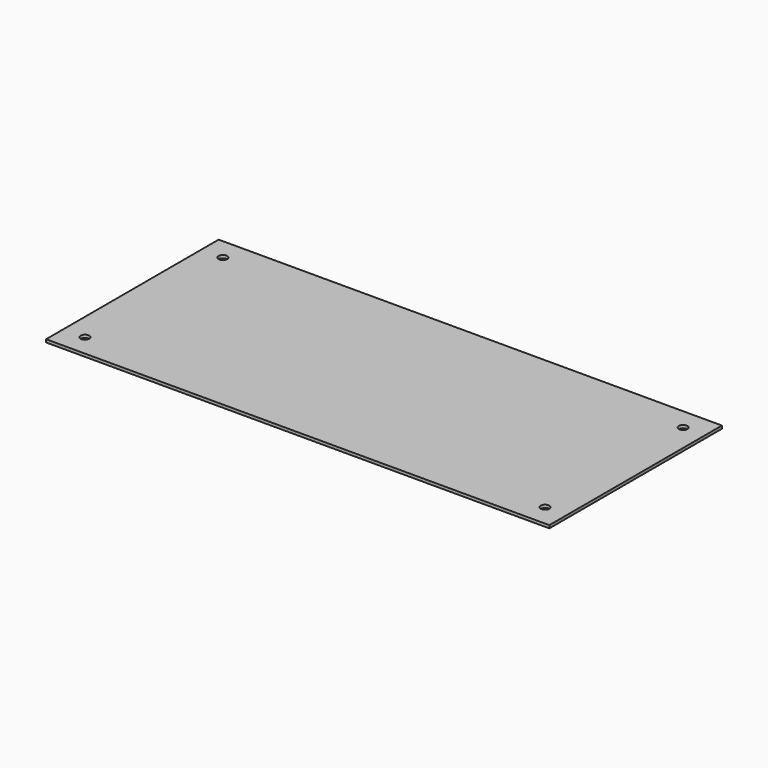
from build123d import *

# Parameters (mm, degrees)
F0_W     = 350
F0_H     = 150
F1_DEPTH = 2
F3_D     = 6
F3_DEPTH = 150


with BuildPart() as f1:
    # F0 (on Top) → F1 (new body)
    with BuildSketch(Plane.XY):
        Rectangle(F0_W, F0_H)
    extrude(amount=F1_DEPTH)

    # F3
    with Locations(Plane.XY.offset(2)):
        with Locations((-160, 60), (-160, -60), (160, 60), (160, -60)):
            Hole(F3_D / 2, depth=F3_DEPTH)


solid = f1.part
